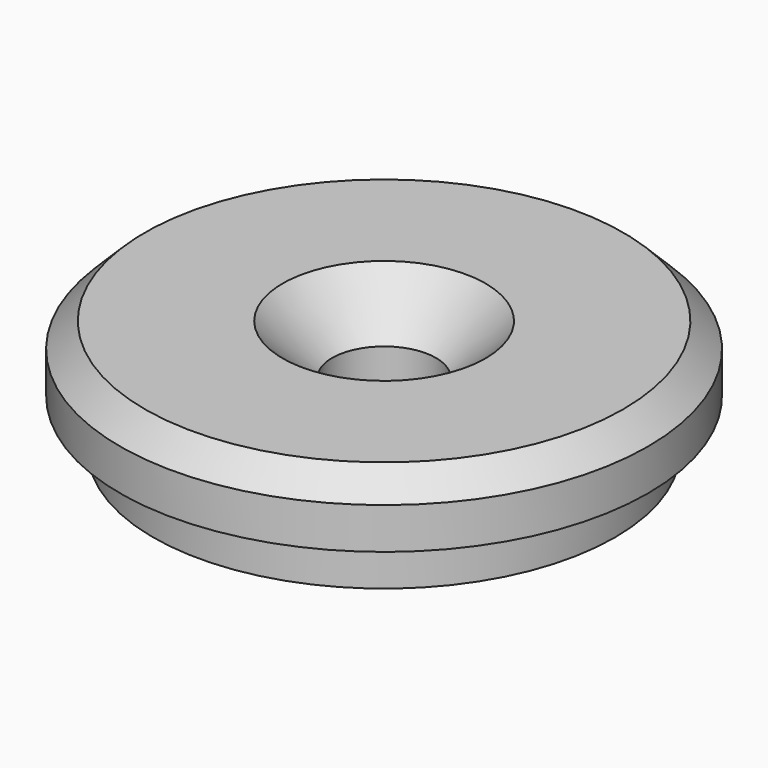
from build123d import *

# Parameters (mm, degrees)
F0_R     = 16
F0_R_2   = 14
F0_R_3   = 3.15
F1_DEPTH = 4
F2_DEPTH = 3
F3_SIZE  = 3
F4_SIZE  = 1.5


with BuildPart() as f1:
    # F0 (on Top) → F1 (new body)
    with BuildSketch(Plane.XY):
        Circle(F0_R)
        Circle(F0_R_2, mode=Mode.SUBTRACT)
        Circle(F0_R_2)
        Circle(F0_R_3, mode=Mode.SUBTRACT)
    extrude(amount=F1_DEPTH)

    # F0 (on Top) → F2 (join)
    with BuildSketch(Plane.XY):
        Circle(F0_R_2)
        Circle(F0_R_3, mode=Mode.SUBTRACT)
    extrude(amount=-F2_DEPTH)

    # F3
    f3_edges = [f1.edges().sort_by_distance(p)[0] for p in [
        (-3.15, 0, 4),
    ]]
    chamfer(f3_edges, length=F3_SIZE)

    # F4
    f4_edges = [f1.edges().sort_by_distance(p)[0] for p in [
        (-16, 0, 4),
    ]]
    chamfer(f4_edges, length=F4_SIZE)


solid = f1.part
